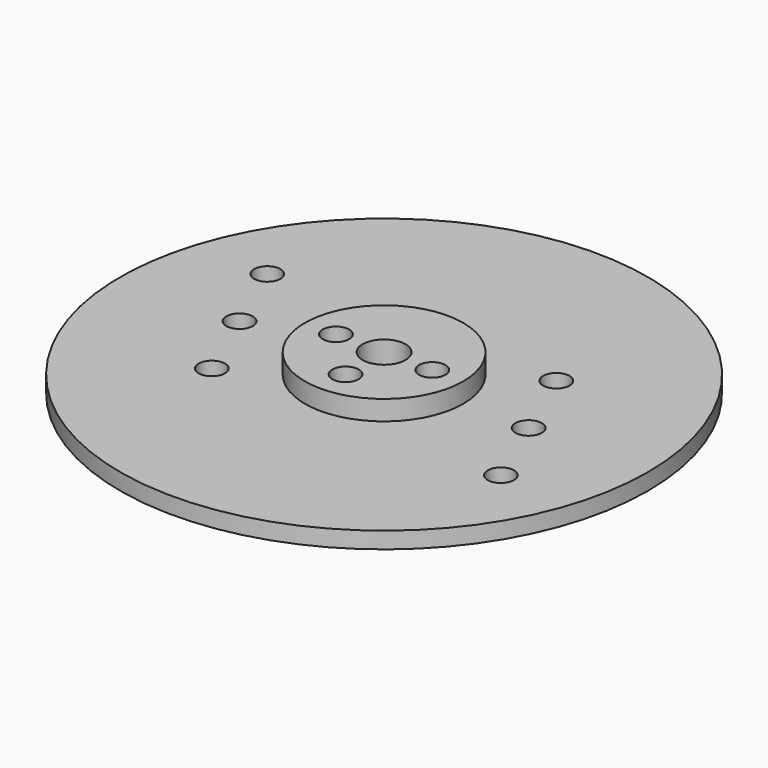
from build123d import *

# Parameters (mm, degrees)
F0_R      = 40
F1_DEPTH  = 2.5
F2_R      = 12
F3_DEPTH  = 3
F4_R      = 2
F5_DEPTH  = 25
F6_R      = 3.25
F7_DEPTH  = 25
F9_R      = 2
F10_DEPTH = 25


with BuildPart() as f1:
    # F0 (on Top) → F1 (new body)
    with BuildSketch(Plane.XY):
        Circle(F0_R)
    extrude(amount=F1_DEPTH)

    # F2 (on face) → F3 (join)
    with BuildSketch(Plane.XY.offset(2.5)):
        Circle(F2_R)
    extrude(amount=F3_DEPTH)

    # F4 (on face) → F5 (cut)
    with BuildSketch(Plane.XY.offset(5.5)):
        with Locations((-7.3, 0)):
            Circle(F4_R)
        with Locations((7.3, 0)):
            Circle(F4_R)
        with Locations((0, -7.3)):
            Circle(F4_R)
    extrude(amount=-F5_DEPTH, mode=Mode.SUBTRACT)

    # F6 (on face) → F7 (cut)
    with BuildSketch(Plane.XY.offset(5.5)):
        Circle(F6_R)
    extrude(amount=-F7_DEPTH, mode=Mode.SUBTRACT)

    # F9 (on face) → F10 (cut)
    with BuildSketch(Plane.XY.offset(2.5)):
        with Locations((21.9, 0)):
            Circle(F9_R)
        with Locations((16.9, 11.5)):
            Circle(F9_R)
        with Locations((26.9, -11.5)):
            Circle(F9_R)
        with Locations((-26.9, 11.5)):
            Circle(F9_R)
        with Locations((-21.9, 0)):
            Circle(F9_R)
        with Locations((-16.9, -11.5)):
            Circle(F9_R)
    extrude(amount=-F10_DEPTH, mode=Mode.SUBTRACT)


solid = f1.part
